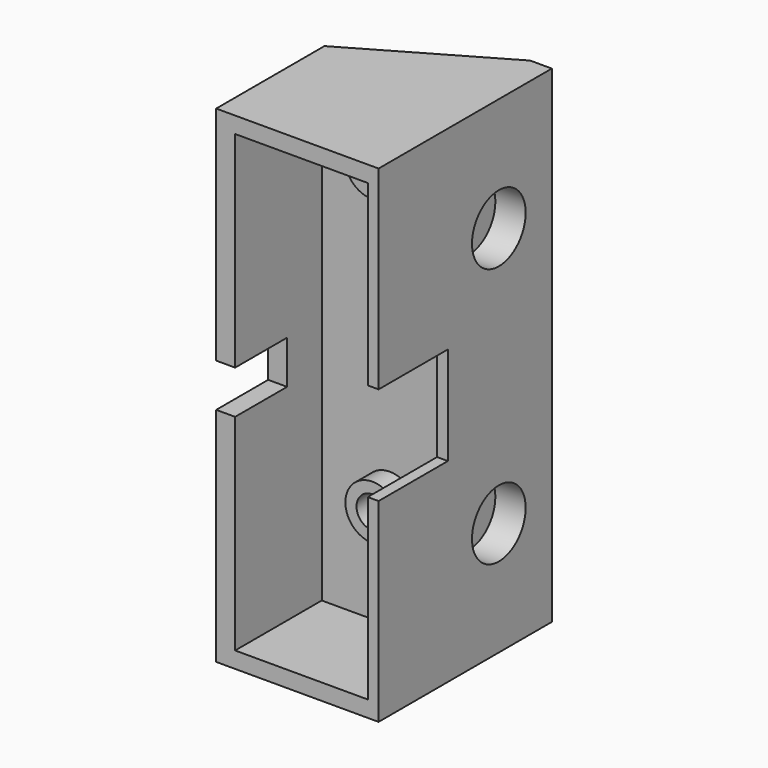
from build123d import *

# Parameters (mm, degrees)
PAD_DEPTH       = 22.5
SKETCH001_R     = 1.4
POCKET_DEPTH    = 13
SKETCH002_R     = 3.1
POCKET001_DEPTH = 2.8
SKETCH004_W     = 12.25
SKETCH004_H     = 42
POCKET002_DEPTH = 10
SKETCH010_R     = 2.5
SKETCH010_R_2   = 1.391107
SKETCH010_R_3   = 1.47119
PAD001_DEPTH    = 2
SKETCH006_W     = 12.042882
SKETCH006_H     = 4
POCKET003_DEPTH = 15.001
SKETCH011_W     = 13.213881
SKETCH011_H     = 9.078228
POCKET004_DEPTH = 5


with BuildPart() as part:
    # Sketch → Pad (new body, symmetric)
    with BuildSketch(Plane.XY):
        Polygon((0, 0), (-15, 0), (-15, 12.494447), (-2, 20), (0, 20), align=None)
    extrude(amount=PAD_DEPTH, both=True)

    # Sketch001 (on Face1 of Pad) → Pocket (cut)
    with BuildSketch(Plane.XZ):
        with Locations((-7, 17)):
            Circle(SKETCH001_R)
        with Locations((-7, -11)):
            Circle(SKETCH001_R)
    extrude(amount=-POCKET_DEPTH, mode=Mode.SUBTRACT)

    # Sketch002 → Pocket001 (cut)
    with BuildSketch(Plane.YZ):
        with Locations((13.88237, 12)):
            Circle(SKETCH002_R)
        with Locations((13.88237, -12)):
            Circle(SKETCH002_R)
    extrude(amount=-POCKET001_DEPTH, mode=Mode.SUBTRACT)

    # Sketch004 → Pocket002 (cut)
    with BuildSketch(Plane.XZ):
        with Locations((-7.125, 0)):
            Rectangle(SKETCH004_W, SKETCH004_H)
    extrude(amount=-POCKET002_DEPTH, mode=Mode.SUBTRACT)

    # Sketch010 (on Face14 of Pocket002) → Pad001 (join)
    with BuildSketch(Plane.XZ.offset(-10)):
        with Locations((-7.014447, 16.981703)):
            Circle(SKETCH010_R)
        with Locations((-7.014447, 16.981703)):
            Circle(SKETCH010_R_2, mode=Mode.SUBTRACT)
        with Locations((-6.967297, -10.977527)):
            Circle(SKETCH010_R)
        with Locations((-6.967297, -10.977527)):
            Circle(SKETCH010_R_3, mode=Mode.SUBTRACT)
    extrude(amount=PAD001_DEPTH)

    # Sketch006 → Pocket003 (cut, through all)
    with BuildSketch(Plane(origin=(-15, 0, 0), x_dir=(0, -1, 0), z_dir=(-1, 0, 0))):
        with Locations((0.021441, 0)):
            Rectangle(SKETCH006_W, SKETCH006_H)
    extrude(amount=-POCKET003_DEPTH, mode=Mode.SUBTRACT)

    # Sketch011 (on Face9 of Pocket003) → Pocket004 (cut)
    with BuildSketch(Plane.YZ):
        with Locations((1.39306, 0)):
            Rectangle(SKETCH011_W, SKETCH011_H)
    extrude(amount=-POCKET004_DEPTH, mode=Mode.SUBTRACT)


solid = part.part
